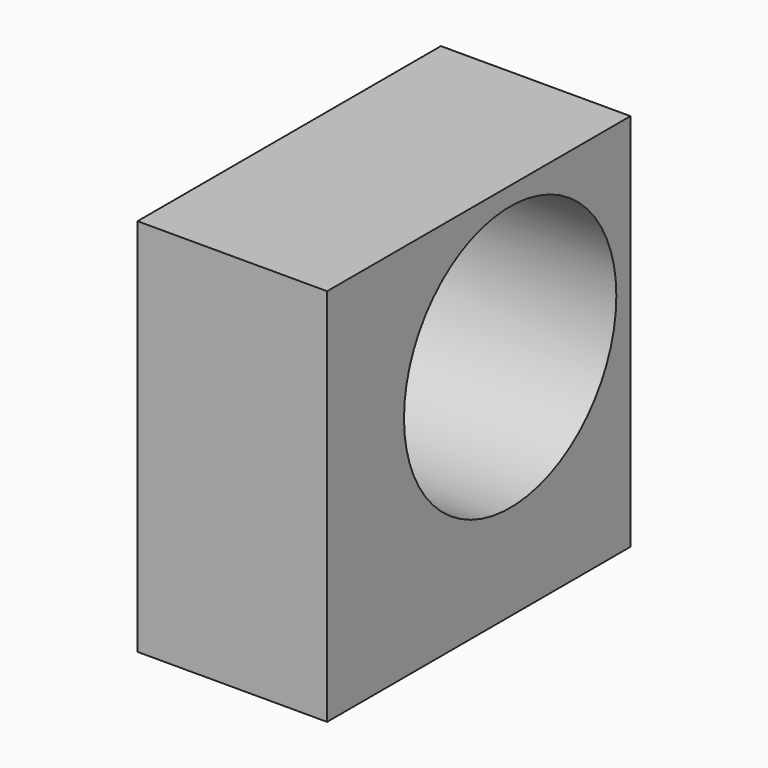
from build123d import *

# Parameters (mm, degrees)
F0_W           = 127
F0_H           = 254
F1_DEPTH       = 254
F3_D           = 127
F3_CBORE_D     = 177.8
F3_CBORE_DEPTH = 127


with BuildPart() as f1:
    # F0 (on Top) → F1 (new body)
    with BuildSketch(Plane.XY):
        with Locations((63.5, 127)):
            Rectangle(F0_W, F0_H)
    extrude(amount=F1_DEPTH)

    # F3 (through all)
    with Locations(Plane(origin=(0, 0, 0), x_dir=(0, -1, 0), z_dir=(-1, 0, 0))):
        with Locations((-153.27017, 152.818576)):
            CounterBoreHole(F3_D / 2, F3_CBORE_D / 2, F3_CBORE_DEPTH)


solid = f1.part
